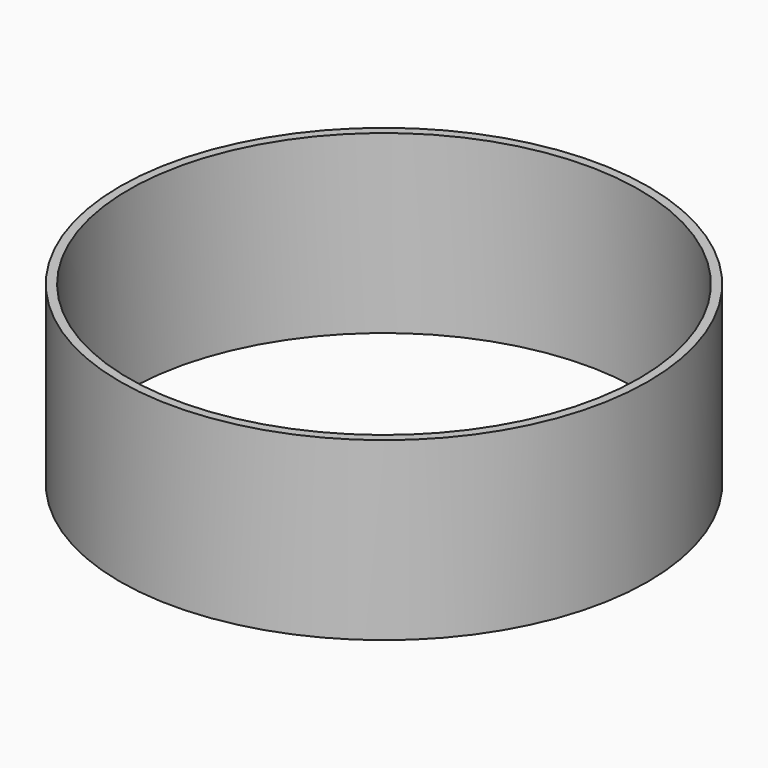
from build123d import *

# Parameters (mm, degrees)
F0_R          = 76.2
F1_DEPTH      = 25.4
F1_DEPTH_BACK = 25.4
F2_T          = -2.54


with BuildPart() as f1:
    # F0 (on Top) → F1 (new body, two sides)
    with BuildSketch(Plane.XY) as f1_sk:
        with Locations((1.2944, 0)):
            Circle(F0_R)
    extrude(amount=F1_DEPTH)
    extrude(f1_sk.sketch, amount=-F1_DEPTH_BACK)

    # F2
    f2_openings = [f1.faces().sort_by_distance(p)[0] for p in [
        (1.2944, 0, 25.4),
        (1.2944, 0, -25.4),
    ]]
    offset(amount=F2_T, openings=f2_openings)


solid = f1.part
